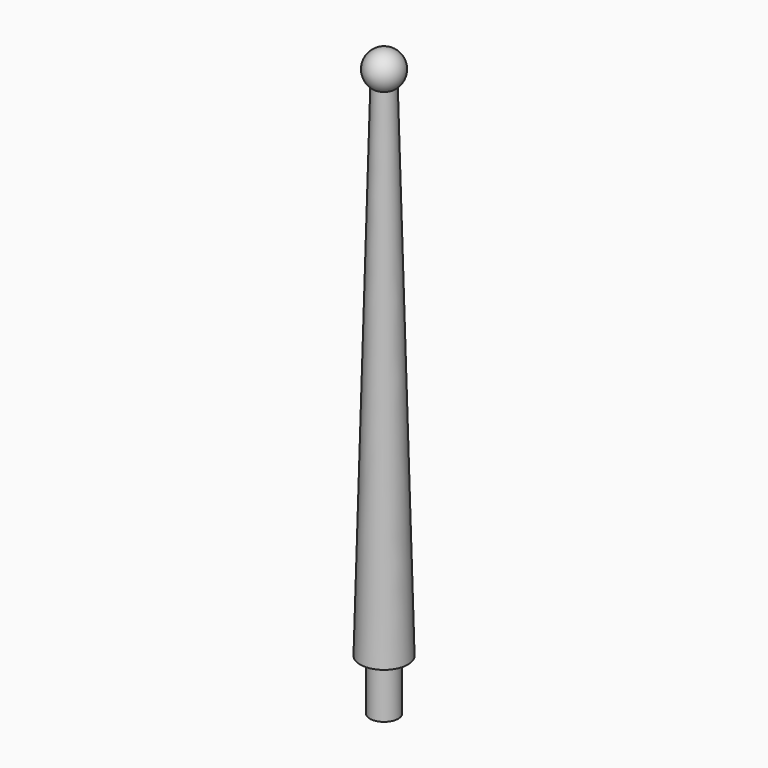
from build123d import *

# Parameters (mm, degrees)
F0_R     = 1.397
F1_DEPTH = 5
F2_R     = 2.349867992
F3_DEPTH = 50.8
F3_TAPER = 1.5


with BuildPart() as f1:
    # F0 (on Top) → F1 (new body)
    with BuildSketch(Plane.XY):
        Circle(F0_R)
    extrude(amount=F1_DEPTH)

    # F2 (on face) → F3 (join)
    with BuildSketch(Plane.XY.offset(5)):
        Circle(F2_R)
    extrude(amount=F3_DEPTH, taper=F3_TAPER)

    # F4 (on face) → F5 (revolve)
    with BuildSketch(Plane.XY.offset(55.8)):
        with BuildLine():
            Line((0, -1.778), (0, 1.778))
            ThreePointArc((0, 1.778), (-1.778, 0), (0, -1.778))
        make_face()
    revolve(axis=Axis((0, 0, 55.8), (0, -1, 0)))


solid = f1.part
